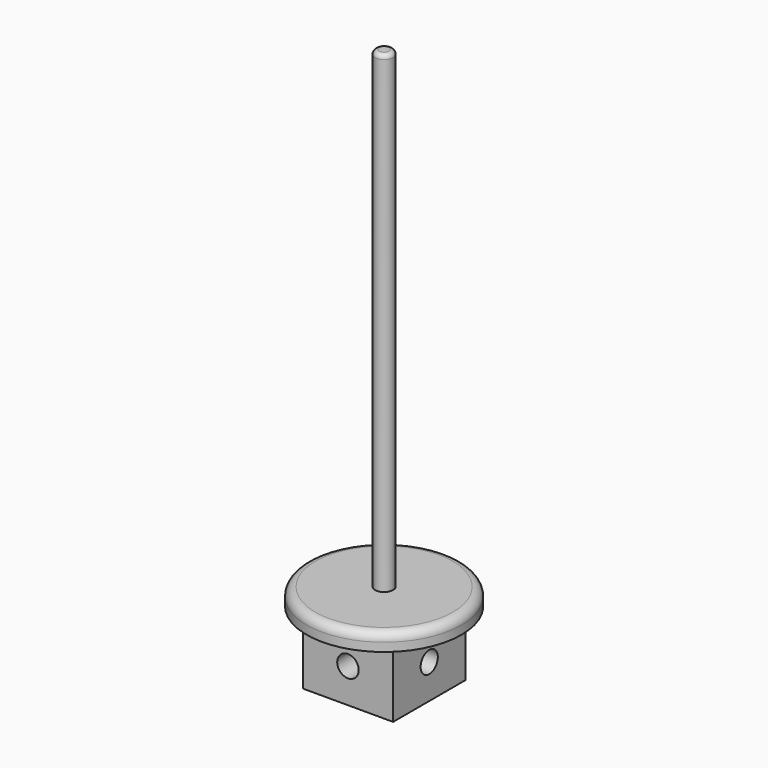
from build123d import *

# Parameters (mm, degrees)
F0_R      = 18
F1_DEPTH  = 4
F2_W      = 21
F2_H      = 21
F3_DEPTH  = 16
F4_R      = 2.1
F5_DEPTH  = 20.001
F6_R      = 2
F7_R      = 2.1
F8_DEPTH  = 130
F9_R      = 1
F10_R     = 2.5
F11_DEPTH = 25
F12_R     = 2.5
F13_DEPTH = 25


with BuildPart() as f1:
    # F0 (on Top) → F1 (new body)
    with BuildSketch(Plane.XY):
        Circle(F0_R)
    extrude(amount=F1_DEPTH)

    # F2 (on Top) → F3 (join)
    with BuildSketch(Plane.XY):
        Rectangle(F2_W, F2_H)
    extrude(amount=-F3_DEPTH)

    # F4 (on face) → F5 (cut, through all)
    with BuildSketch(Plane.XY.offset(4)):
        Circle(F4_R)
    extrude(amount=-F5_DEPTH, mode=Mode.SUBTRACT)

    # F6
    f6_edges = [f1.edges().sort_by_distance(p)[0] for p in [
        (-18, 0, 4),
    ]]
    fillet(f6_edges, radius=F6_R)

    # F7 (on face) → F8 (join)
    with BuildSketch(Plane(origin=(0, 0, -16), x_dir=(1, 0, 0), z_dir=(0, 0, -1))):
        Circle(F7_R)
    extrude(amount=-F8_DEPTH)

    # F9
    f9_edges = [f1.edges().sort_by_distance(p)[0] for p in [
        (-2.1, 0, 114),
    ]]
    fillet(f9_edges, radius=F9_R)

    # F10 (on face) → F11 (cut)
    with BuildSketch(Plane.XZ.offset(10.5)):
        with Locations((0, -8)):
            Circle(F10_R)
    extrude(amount=-F11_DEPTH, mode=Mode.SUBTRACT)

    # F12 (on face) → F13 (cut)
    with BuildSketch(Plane(origin=(-10.5, 0, 0), x_dir=(0, -1, 0), z_dir=(-1, 0, 0))):
        with Locations((0, -8)):
            Circle(F12_R)
    extrude(amount=-F13_DEPTH, mode=Mode.SUBTRACT)


solid = f1.part
